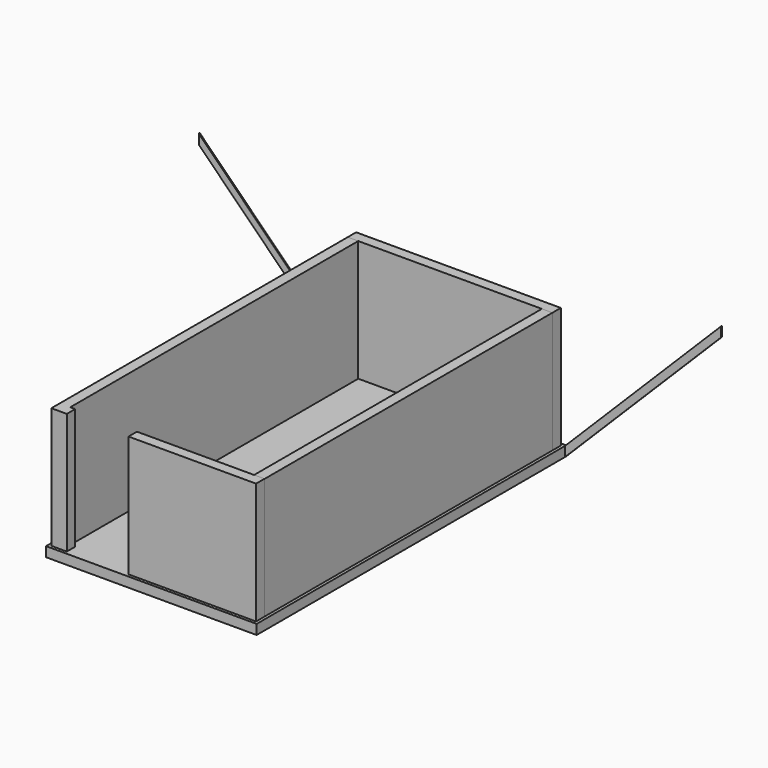
from build123d import *

# Parameters (mm, degrees)
F1_DEPTH  = 200
F2_W      = 215
F2_H      = 7350
F3_DEPTH  = 2475
F5_DEPTH  = 2475
F6_W      = 4180
F6_H      = 215
F7_DEPTH  = 2475
F9_DEPTH  = 25
F10_DEPTH = 25
F11_W     = 2605
F11_H     = 215
F12_DEPTH = 2478


with BuildPart() as f1:
    # F0 (on Top) → F1 (new body)
    with BuildSketch(Plane.XY):
        Polygon((-1347.0436407789, 1379.1199190657), (855.9563592211, 1379.1199190657), (2952.9563592211, 1379.1199190657), (2952.9563592211, 9279.1199190657), (-1347.0436407789, 9279.1199190657), align=None)
    extrude(amount=F1_DEPTH)


with BuildPart() as f3:
    # F2 (on face) → F3 (new body)
    with BuildSketch(Plane.XY.offset(200)):
        with Locations((2785.4563592211, 5329.1199190657)):
            Rectangle(F2_W, F2_H)
    extrude(amount=F3_DEPTH)


with BuildPart() as f5:
    # F4 (on face) → F5 (new body)
    with BuildSketch(Plane.XY.offset(200)):
        Polygon((-1072.0436407789, 9004.1199190657), (-1287.0436407789, 9004.1199190657), (-1287.0436407789, 1439.1199190657), (-972.0436407789, 1439.1199190657), (-972.0436407789, 1654.1199190657), (-1072.0436407789, 1654.1199190657), align=None)
    extrude(amount=F5_DEPTH)


with BuildPart() as f7:
    # F6 (on face) → F7 (new body)
    with BuildSketch(Plane.XY.offset(200)):
        with Locations((802.9563592211, 9111.6199190657)):
            Rectangle(F6_W, F6_H)
    extrude(amount=F7_DEPTH)


with BuildPart() as f9:
    # F8 (on face) → F9 (new body)
    with BuildSketch(Plane(origin=(0, 9279.1199190657, 0), x_dir=(-1, 0, 0), z_dir=(0, 1, 0))):
        Polygon((-6134.9368745606, 3181.9805153395), (-2952.9563592211, 0), (-2952.9563592211, 200), (-6134.9368745606, 3381.9805153395), align=None)
    extrude(amount=-F9_DEPTH)


with BuildPart() as f10:
    # F8 (on face) → F10 (new body)
    with BuildSketch(Plane(origin=(0, 9279.1199190657, 0), x_dir=(-1, 0, 0), z_dir=(0, 1, 0))):
        Polygon((1347.0436407789, 200), (1347.0436407789, 0), (4529.0241561183, 3181.9805153395), (4529.0241561183, 3381.9805153395), align=None)
    extrude(amount=-F10_DEPTH)


with BuildPart() as f12:
    # F11 (on face) → F12 (new body)
    with BuildSketch(Plane.XY.offset(200)):
        with Locations((1590.4563592211, 1546.6199190657)):
            Rectangle(F11_W, F11_H)
    extrude(amount=F12_DEPTH)


solid = Compound([f1.part, f3.part, f5.part, f7.part, f9.part, f10.part, f12.part])
